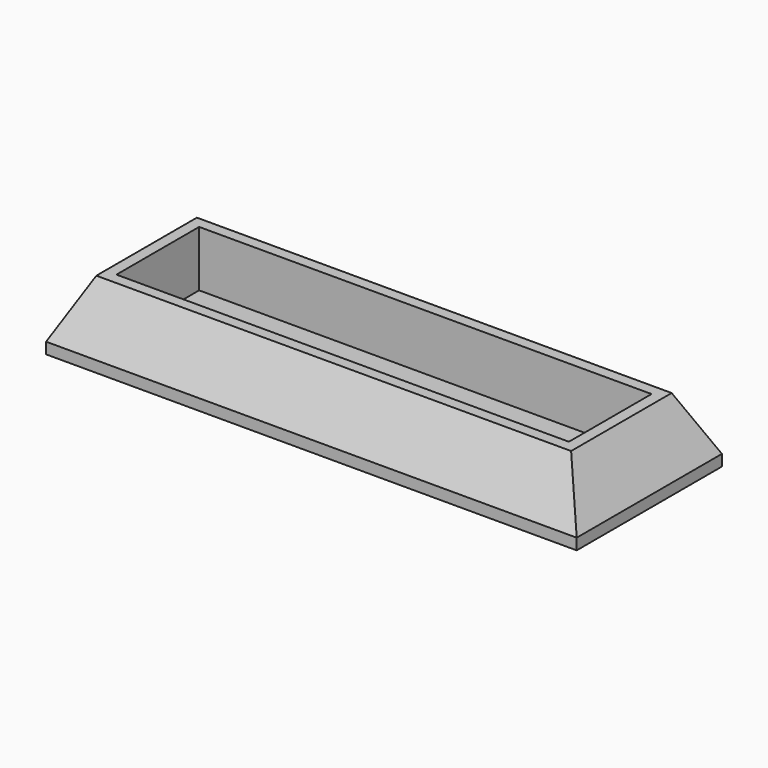
from build123d import *

# Parameters (mm, degrees)
F0_W     = 95
F0_H     = 32.5
F1_DEPTH = 12
F3_DEPTH = 10
F4_SIZE2 = 10
F4_SIZE  = 5


with BuildPart() as f1:
    # F0 (on Top) → F1 (new body)
    with BuildSketch(Plane.XY):
        with Locations((40.5, 9.25)):
            Rectangle(F0_W, F0_H)
    extrude(amount=F1_DEPTH)

    # F2 (on face) → F3 (cut)
    with BuildSketch(Plane.XY.offset(12)):
        Polygon((0, 18.5), (0, 0), (4.9286105492, 0), (81, 0), (81, 18.5), align=None)
    extrude(amount=-F3_DEPTH, mode=Mode.SUBTRACT)

    # F4
    f4_edges = [f1.edges().sort_by_distance(p)[0] for p in [
        (40.5, 25.5, 12),
        (88, 9.25, 12),
        (40.5, -7, 12),
        (-7, 9.25, 12),
    ]]
    f4_side = f1.faces().sort_by_distance((40.5, 24.495946, 12))[0]
    chamfer(f4_edges, length=F4_SIZE, length2=F4_SIZE2, reference=f4_side)


solid = f1.part
